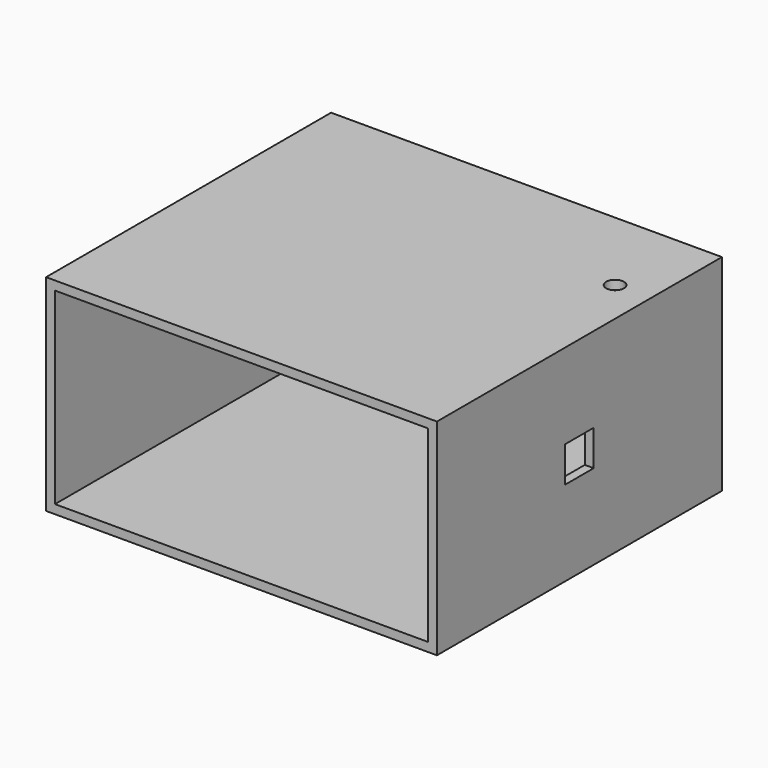
from build123d import *

# Parameters (mm, degrees)
F0_W     = 438.88918
F0_H     = 231.110052
F0_W_2   = 418.88918
F0_H_2   = 211.110052
F1_DEPTH = 400
F3_D     = 20
F3_DEPTH = 12.4
F4_W     = 40
F4_H     = 40
F5_DEPTH = 10


with BuildPart() as f1:
    # F0 (on Front) → F1 (new body)
    with BuildSketch(Plane.XZ):
        Rectangle(F0_W, F0_H)
        Rectangle(F0_W_2, F0_H_2, mode=Mode.SUBTRACT)
    extrude(amount=-F1_DEPTH)

    # F3
    with Locations(Plane.XY.offset(115.555026)):
        with Locations((179.44459, 300)):
            Hole(F3_D / 2, depth=F3_DEPTH)

    # F4 (on face) → F5 (cut, through all)
    with BuildSketch(Plane.YZ.offset(219.44459)):
        with Locations((200, 0)):
            Rectangle(F4_W, F4_H)
    extrude(amount=-F5_DEPTH, mode=Mode.SUBTRACT)


solid = f1.part
